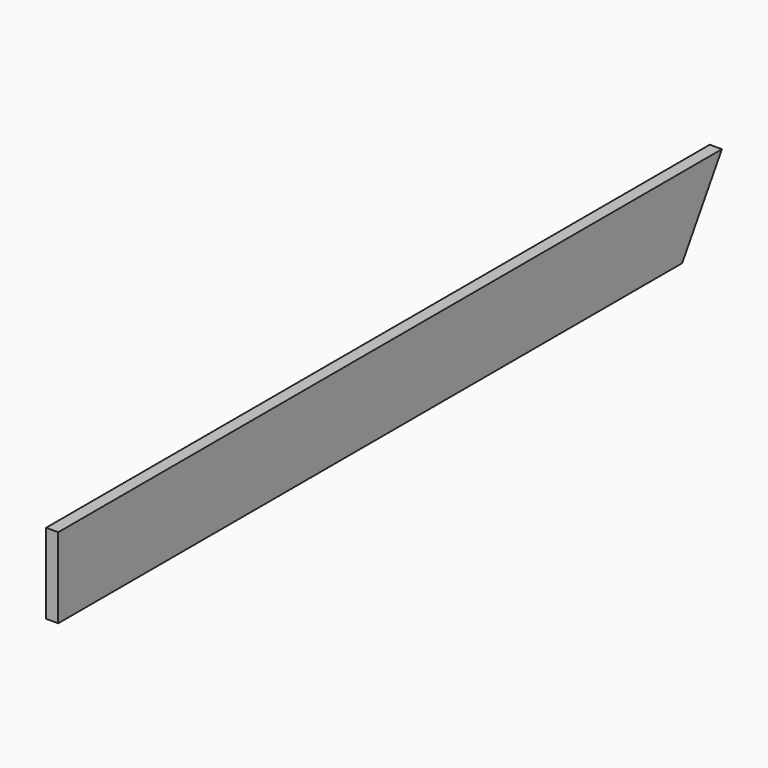
from build123d import *

# Parameters (mm, degrees)
F0_W     = 1500
F0_H     = 145
F1_DEPTH = 22
F3_DEPTH = 25


with BuildPart() as f1:
    # F0 (on Right) → F1 (new body)
    with BuildSketch(Plane.YZ):
        with Locations((750, 72.5)):
            Rectangle(F0_W, F0_H)
    extrude(amount=F1_DEPTH)

    # F2 (on face) → F3 (cut)
    with BuildSketch(Plane.YZ.offset(22)):
        Polygon((1500, 0), (1410.136766, 0), (1395.988345, -22.829371), (1500, -22.829371), align=None)
        Polygon((1500, 0), (1500, 145), (1410.136766, 0), align=None)
    extrude(amount=-F3_DEPTH, mode=Mode.SUBTRACT)


solid = f1.part
